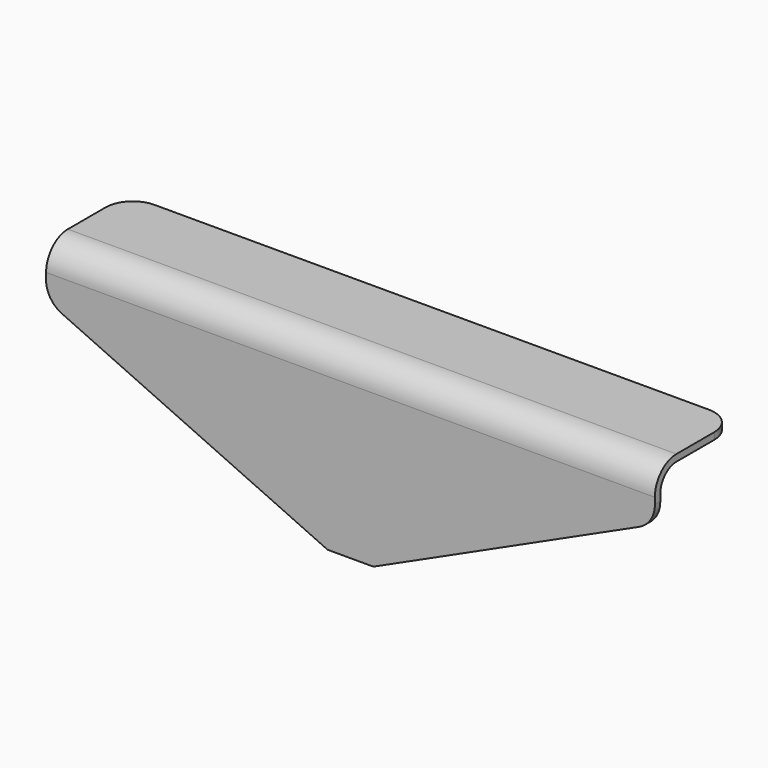
from build123d import *

# Parameters (mm, degrees)
F2_DEPTH = 250
F3_DEPTH = 100
F4_R     = 20


with BuildPart() as f2:
    # F1 (on Right) → F2 (new body)
    with BuildSketch(Plane.YZ):
        with BuildLine():
            Line((0, 154.855098), (0, 42.036165))
            Line((0, 42.036165), (5, 42.036165))
            Line((5, 42.036165), (5, 154.855098))
            ThreePointArc((5, 154.855098), (9.393398, 165.4617), (20, 169.855098))
            Line((20, 169.855098), (75, 169.855098))
            Line((75, 169.855098), (75, 174.855098))
            Line((75, 174.855098), (20, 174.855098))
            ThreePointArc((20, 174.855098), (5.857864, 168.997234), (0, 154.855098))
        make_face()
    extrude(amount=F2_DEPTH)

    # F0 (on Front) → F3 (cut)
    with BuildSketch(Plane.XZ):
        with BuildLine():
            Line((291.145295, 178.066522), (224.921591, 175.062526))
            Line((224.921591, 175.062526), (224.999902, 150.062649))
            ThreePointArc((224.999902, 150.062649), (221.844029, 139.216741), (213.315195, 131.81051))
            Line((213.315195, 131.81051), (61.684805, 62.493761))
            Line((61.684805, 62.493761), (-75.020296, 0))
            Line((-75.020296, 0), (292.977542, 0))
            Line((292.977542, 0), (291.145295, 62.493761))
            Line((291.145295, 62.493761), (291.145295, 178.066522))
        make_face()
    extrude(amount=-F3_DEPTH, mode=Mode.SUBTRACT)

    # F4
    f4_edges = [f2.edges().sort_by_distance(p)[0] for p in [
        (224.930072, 75, 172.355098),
    ]]
    fillet(f4_edges, radius=F4_R)

    # F5: F2 across plane


with BuildPart() as f2_1:
    add(f2.part)
    add(f2.part.mirror(Plane.YZ))


solid = f2_1.part
